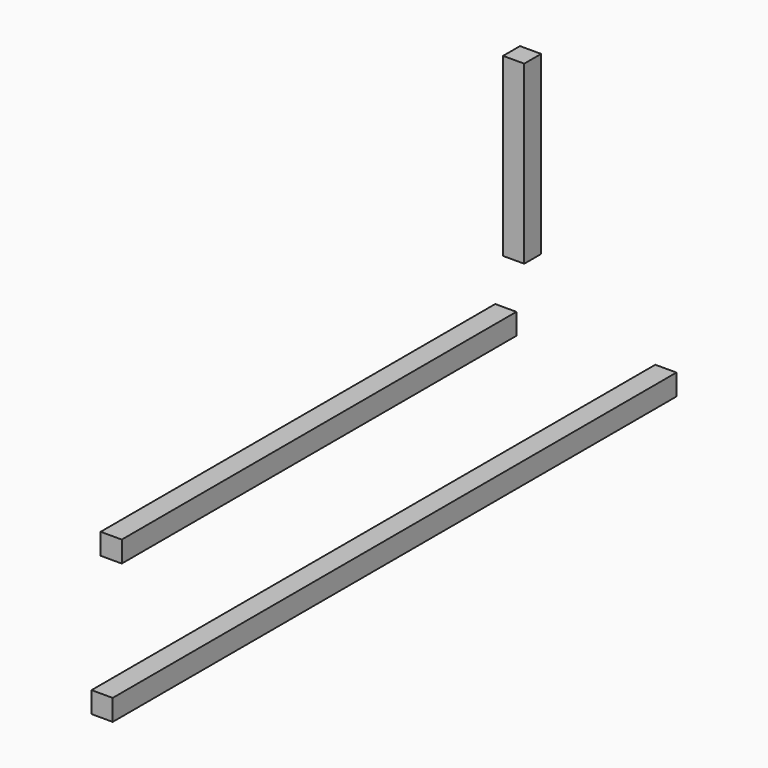
from build123d import *

# Parameters (mm, degrees)
F0_W     = 30
F0_H     = 30
F1_DEPTH = 250
F2_W     = 30
F2_H     = 30
F3_DEPTH = 1000
F4_DEPTH = 700


with BuildPart() as f1:
    # F0 (on Top) → F1 (new body)
    with BuildSketch(Plane.XY):
        with Locations((58.1509166956, -50.9285262227)):
            Rectangle(F0_W, F0_H)
    extrude(amount=F1_DEPTH)


with BuildPart() as f3:
    # F2 (on Front) → F3 (new body)
    with BuildSketch(Plane.XZ):
        with Locations((221.4248037338, -124.5870149136)):
            Rectangle(F2_W, F2_H)
    extrude(amount=F3_DEPTH)


with BuildPart() as f4:
    # F2 (on Front) → F4 (new body)
    with BuildSketch(Plane.XZ):
        with Locations((-5.7069445029, -122.5953102112)):
            Rectangle(F2_W, F2_H)
    extrude(amount=F4_DEPTH)


solid = Compound([f1.part, f3.part, f4.part])
